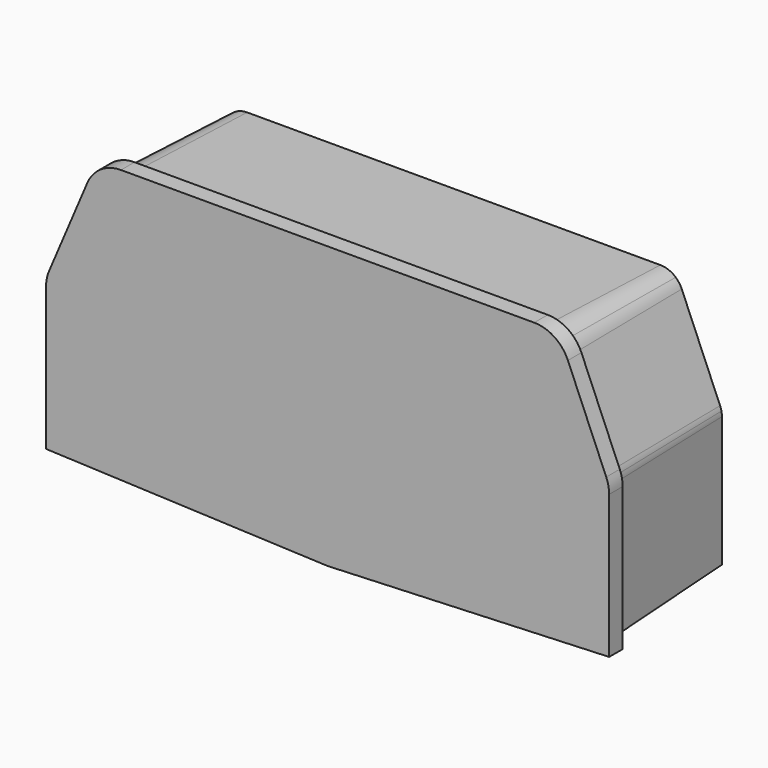
from build123d import *

# Parameters (mm, degrees)
F1_DEPTH = 3
F2_DEPTH = 25
F2_TAPER = 2


with BuildPart() as f1:
    # F0 (on Front) → F1 (new body)
    with BuildSketch(Plane.XZ):
        with BuildLine():
            Line((-50, -13.9400455604), (0, -15.9801289749))
            Line((0, -15.9801289749), (50, -13.9400455604))
            Line((50, -13.9400455604), (50, 11.4815801105))
            ThreePointArc((50, 11.4815801105), (49.8692221387, 12.7788886118), (49.48215097, 14.0239942728))
            Line((49.48215097, 14.0239942728), (42.674322517, 30.0424141622))
            ThreePointArc((42.674322517, 30.0424141622), (40.2785560736, 32.9210558037), (36.692171547, 34))
            Line((36.692171547, 34), (-36.692171547, 34))
            ThreePointArc((-36.692171547, 34), (-40.2785560736, 32.9210558037), (-42.674322517, 30.0424141622))
            Line((-42.674322517, 30.0424141622), (-49.48215097, 14.0239942728))
            ThreePointArc((-49.48215097, 14.0239942728), (-49.8692221387, 12.7788886118), (-50, 11.4815801105))
            Line((-50, 11.4815801105), (-50, -13.9400455604))
        make_face()
        with BuildLine():
            Line((48.5, 11.4815801105), (48.5, -12.5))
            Line((48.5, -12.5), (0, -14.4788809121))
            Line((0, -14.4788809121), (-48.5, -12.5))
            Line((-48.5, -12.5), (-48.5, 11.4815801105))
            ThreePointArc((-48.5, 11.4815801105), (-48.4737268325, 11.9934799011), (-48.3951834418, 12.5))
            ThreePointArc((-48.3951834418, 12.5), (-48.2714890929, 12.9758665077), (-48.1016545923, 13.4372833123))
            Line((-48.1016545923, 13.4372833123), (-41.2938261393, 29.4557032017))
            ThreePointArc((-41.2938261393, 29.4557032017), (-40.7473349126, 30.4250042869), (-40, 31.249436081))
            ThreePointArc((-40, 31.249436081), (-38.4603372059, 32.1769210173), (-36.692171547, 32.5))
            Line((-36.692171547, 32.5), (0, 32.5))
            Line((0, 32.5), (36.692171547, 32.5))
            ThreePointArc((36.692171547, 32.5), (38.4603372059, 32.1769210173), (40, 31.249436081))
            ThreePointArc((40, 31.249436081), (40.7473349126, 30.4250042869), (41.2938261393, 29.4557032017))
            Line((41.2938261393, 29.4557032017), (48.1016545923, 13.4372833123))
            ThreePointArc((48.1016545923, 13.4372833123), (48.2714890929, 12.9758665077), (48.3951834418, 12.5))
            ThreePointArc((48.3951834418, 12.5), (48.4737268325, 11.9934799011), (48.5, 11.4815801105))
        make_face(mode=Mode.SUBTRACT)
        with BuildLine():
            Line((0, 12.5), (0, -12.4772168282))
            Line((0, -12.4772168282), (46.5, -10.5799392527))
            Line((46.5, -10.5799392527), (46.5, 11.4815801105))
            ThreePointArc((46.5, 11.4815801105), (46.4551261591, 11.9985224514), (46.3218470775, 12.5))
            Line((46.3218470775, 12.5), (40, 12.5))
            Line((40, 12.5), (0, 12.5))
        make_face()
        with BuildLine():
            Line((-46.5, -10.5799392527), (0, -12.4772168282))
            Line((0, -12.4772168282), (0, 12.5))
            Line((0, 12.5), (-40, 12.5))
            Line((-40, 12.5), (-46.3218470775, 12.5))
            ThreePointArc((-46.3218470775, 12.5), (-46.4551261591, 11.9985224514), (-46.5, 11.4815801105))
            Line((-46.5, 11.4815801105), (-46.5, -10.5799392527))
        make_face()
        with BuildLine():
            Line((-40, 12.5), (0, 12.5))
            Line((0, 12.5), (0, 30.5))
            Line((0, 30.5), (-36.692171547, 30.5))
            ThreePointArc((-36.692171547, 30.5), (-38.3474259439, 30.0020257556), (-39.4531643024, 28.673421921))
            Line((-39.4531643024, 28.673421921), (-40, 27.3867496913))
            Line((-40, 27.3867496913), (-40, 12.5))
        make_face()
        with BuildLine():
            Line((0, 30.5), (0, 12.5))
            Line((0, 12.5), (40, 12.5))
            Line((40, 12.5), (40, 27.3867496913))
            Line((40, 27.3867496913), (39.4531643024, 28.673421921))
            ThreePointArc((39.4531643024, 28.673421921), (38.3474259439, 30.0020257556), (36.692171547, 30.5))
            Line((36.692171547, 30.5), (0, 30.5))
        make_face()
        with BuildLine():
            Line((0, -12.5), (48.5, -12.5))
            Line((48.5, -12.5), (48.5, 11.4815801105))
            ThreePointArc((48.5, 11.4815801105), (48.4737268325, 11.9934799011), (48.3951834418, 12.5))
            Line((48.3951834418, 12.5), (46.3218470775, 12.5))
            ThreePointArc((46.3218470775, 12.5), (46.4551261591, 11.9985224514), (46.5, 11.4815801105))
            Line((46.5, 11.4815801105), (46.5, -10.5799392527))
            Line((46.5, -10.5799392527), (0, -12.4772168282))
            Line((0, -12.4772168282), (0, -12.5))
        make_face()
        with BuildLine():
            Line((-48.5, -12.5), (0, -12.5))
            Line((0, -12.5), (0, -12.4772168282))
            Line((0, -12.4772168282), (-46.5, -10.5799392527))
            Line((-46.5, -10.5799392527), (-46.5, 11.4815801105))
            ThreePointArc((-46.5, 11.4815801105), (-46.4551261591, 11.9985224514), (-46.3218470775, 12.5))
            Line((-46.3218470775, 12.5), (-48.3951834418, 12.5))
            ThreePointArc((-48.3951834418, 12.5), (-48.4737268325, 11.9934799011), (-48.5, 11.4815801105))
            Line((-48.5, 11.4815801105), (-48.5, -12.5))
        make_face()
        with BuildLine():
            Line((0, 32.5), (0, 30.5))
            Line((0, 30.5), (36.692171547, 30.5))
            ThreePointArc((36.692171547, 30.5), (38.3474259439, 30.0020257556), (39.4531643024, 28.673421921))
            Line((39.4531643024, 28.673421921), (40, 27.3867496913))
            Line((40, 27.3867496913), (40, 31.249436081))
            ThreePointArc((40, 31.249436081), (38.4603372059, 32.1769210173), (36.692171547, 32.5))
            Line((36.692171547, 32.5), (0, 32.5))
        make_face()
        with BuildLine():
            Line((-36.692171547, 30.5), (0, 30.5))
            Line((0, 30.5), (0, 32.5))
            Line((0, 32.5), (-36.692171547, 32.5))
            ThreePointArc((-36.692171547, 32.5), (-38.4603372059, 32.1769210173), (-40, 31.249436081))
            Line((-40, 31.249436081), (-40, 27.3867496913))
            Line((-40, 27.3867496913), (-39.4531643024, 28.673421921))
            ThreePointArc((-39.4531643024, 28.673421921), (-38.3474259439, 30.0020257556), (-36.692171547, 30.5))
        make_face()
        Polygon((0, -14.4788809121), (48.5, -12.5), (0, -12.5), align=None)
        Polygon((0, -14.4788809121), (0, -12.5), (-48.5, -12.5), align=None)
        with BuildLine():
            Line((-46.3218470775, 12.5), (-40, 12.5))
            Line((-40, 12.5), (-40, 27.3867496913))
            Line((-40, 27.3867496913), (-46.2609927554, 12.6550020316))
            ThreePointArc((-46.2609927554, 12.6550020316), (-46.2924955787, 12.5779233244), (-46.3218470775, 12.5))
        make_face()
        with BuildLine():
            Line((40, 12.5), (46.3218470775, 12.5))
            ThreePointArc((46.3218470775, 12.5), (46.2924955787, 12.5779233244), (46.2609927554, 12.6550020316))
            Line((46.2609927554, 12.6550020316), (40, 27.3867496913))
            Line((40, 27.3867496913), (40, 12.5))
        make_face()
        with BuildLine():
            ThreePointArc((-48.1016545923, 13.4372833123), (-48.2714890929, 12.9758665077), (-48.3951834418, 12.5))
            Line((-48.3951834418, 12.5), (-46.3218470775, 12.5))
            ThreePointArc((-46.3218470775, 12.5), (-46.2924955787, 12.5779233244), (-46.2609927554, 12.6550020316))
            Line((-46.2609927554, 12.6550020316), (-40, 27.3867496913))
            Line((-40, 27.3867496913), (-40, 31.249436081))
            ThreePointArc((-40, 31.249436081), (-40.7473349126, 30.4250042869), (-41.2938261393, 29.4557032017))
            Line((-41.2938261393, 29.4557032017), (-48.1016545923, 13.4372833123))
        make_face()
        with BuildLine():
            Line((46.3218470775, 12.5), (48.3951834418, 12.5))
            ThreePointArc((48.3951834418, 12.5), (48.2714890929, 12.9758665077), (48.1016545923, 13.4372833123))
            Line((48.1016545923, 13.4372833123), (41.2938261393, 29.4557032017))
            ThreePointArc((41.2938261393, 29.4557032017), (40.7473349126, 30.4250042869), (40, 31.249436081))
            Line((40, 31.249436081), (40, 27.3867496913))
            Line((40, 27.3867496913), (46.2609927554, 12.6550020316))
            ThreePointArc((46.2609927554, 12.6550020316), (46.2924955787, 12.5779233244), (46.3218470775, 12.5))
        make_face()
    extrude(amount=F1_DEPTH)

    # F0 (on Front) → F2 (join)
    with BuildSketch(Plane.XZ):
        with BuildLine():
            Line((-36.692171547, 30.5), (0, 30.5))
            Line((0, 30.5), (0, 32.5))
            Line((0, 32.5), (-36.692171547, 32.5))
            ThreePointArc((-36.692171547, 32.5), (-38.4603372059, 32.1769210173), (-40, 31.249436081))
            Line((-40, 31.249436081), (-40, 27.3867496913))
            Line((-40, 27.3867496913), (-39.4531643024, 28.673421921))
            ThreePointArc((-39.4531643024, 28.673421921), (-38.3474259439, 30.0020257556), (-36.692171547, 30.5))
        make_face()
        with BuildLine():
            ThreePointArc((-48.1016545923, 13.4372833123), (-48.2714890929, 12.9758665077), (-48.3951834418, 12.5))
            Line((-48.3951834418, 12.5), (-46.3218470775, 12.5))
            ThreePointArc((-46.3218470775, 12.5), (-46.2924955787, 12.5779233244), (-46.2609927554, 12.6550020316))
            Line((-46.2609927554, 12.6550020316), (-40, 27.3867496913))
            Line((-40, 27.3867496913), (-40, 31.249436081))
            ThreePointArc((-40, 31.249436081), (-40.7473349126, 30.4250042869), (-41.2938261393, 29.4557032017))
            Line((-41.2938261393, 29.4557032017), (-48.1016545923, 13.4372833123))
        make_face()
        with BuildLine():
            Line((-48.5, -12.5), (0, -12.5))
            Line((0, -12.5), (0, -12.4772168282))
            Line((0, -12.4772168282), (-46.5, -10.5799392527))
            Line((-46.5, -10.5799392527), (-46.5, 11.4815801105))
            ThreePointArc((-46.5, 11.4815801105), (-46.4551261591, 11.9985224514), (-46.3218470775, 12.5))
            Line((-46.3218470775, 12.5), (-48.3951834418, 12.5))
            ThreePointArc((-48.3951834418, 12.5), (-48.4737268325, 11.9934799011), (-48.5, 11.4815801105))
            Line((-48.5, 11.4815801105), (-48.5, -12.5))
        make_face()
        Polygon((0, -14.4788809121), (0, -12.5), (-48.5, -12.5), align=None)
        Polygon((0, -14.4788809121), (48.5, -12.5), (0, -12.5), align=None)
        with BuildLine():
            Line((0, -12.5), (48.5, -12.5))
            Line((48.5, -12.5), (48.5, 11.4815801105))
            ThreePointArc((48.5, 11.4815801105), (48.4737268325, 11.9934799011), (48.3951834418, 12.5))
            Line((48.3951834418, 12.5), (46.3218470775, 12.5))
            ThreePointArc((46.3218470775, 12.5), (46.4551261591, 11.9985224514), (46.5, 11.4815801105))
            Line((46.5, 11.4815801105), (46.5, -10.5799392527))
            Line((46.5, -10.5799392527), (0, -12.4772168282))
            Line((0, -12.4772168282), (0, -12.5))
        make_face()
        with BuildLine():
            Line((46.3218470775, 12.5), (48.3951834418, 12.5))
            ThreePointArc((48.3951834418, 12.5), (48.2714890929, 12.9758665077), (48.1016545923, 13.4372833123))
            Line((48.1016545923, 13.4372833123), (41.2938261393, 29.4557032017))
            ThreePointArc((41.2938261393, 29.4557032017), (40.7473349126, 30.4250042869), (40, 31.249436081))
            Line((40, 31.249436081), (40, 27.3867496913))
            Line((40, 27.3867496913), (46.2609927554, 12.6550020316))
            ThreePointArc((46.2609927554, 12.6550020316), (46.2924955787, 12.5779233244), (46.3218470775, 12.5))
        make_face()
        with BuildLine():
            Line((0, 32.5), (0, 30.5))
            Line((0, 30.5), (36.692171547, 30.5))
            ThreePointArc((36.692171547, 30.5), (38.3474259439, 30.0020257556), (39.4531643024, 28.673421921))
            Line((39.4531643024, 28.673421921), (40, 27.3867496913))
            Line((40, 27.3867496913), (40, 31.249436081))
            ThreePointArc((40, 31.249436081), (38.4603372059, 32.1769210173), (36.692171547, 32.5))
            Line((36.692171547, 32.5), (0, 32.5))
        make_face()
    extrude(amount=-F2_DEPTH, taper=F2_TAPER)


solid = f1.part
